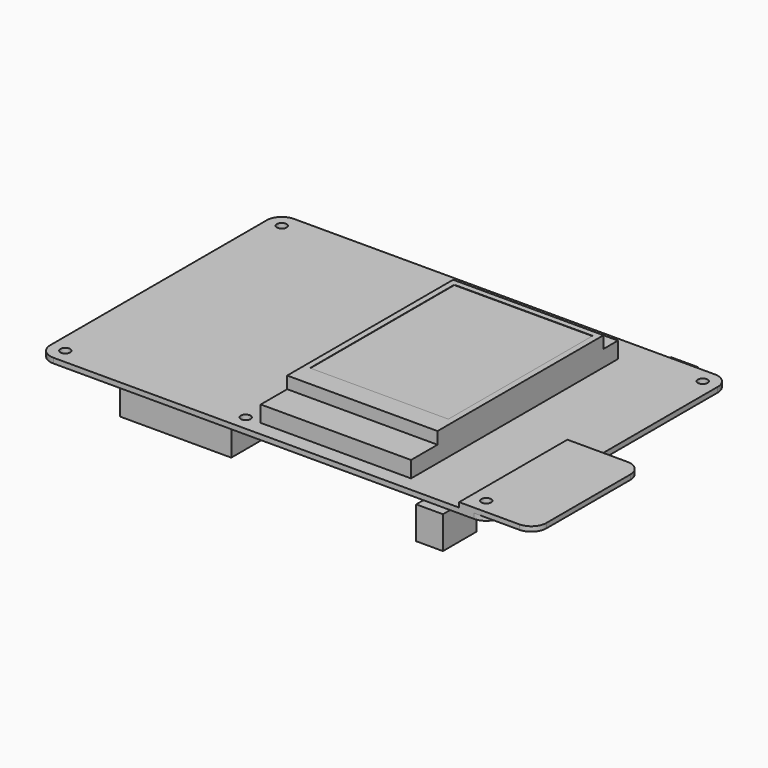
from build123d import *

# Parameters (mm, degrees)
F0_R      = 1.6
F1_DEPTH  = 1.7
F2_W      = 50
F2_H      = 86
F3_DEPTH  = 5.4
F4_W      = 50
F4_H      = 69
F5_DEPTH  = 4
F6_W      = 46
F6_H      = 60
F7_DEPTH  = 0.1
F8_R      = 1.6
F9_DEPTH  = 1.6
F10_W     = 37
F10_H     = 18
F11_DEPTH = 11
F12_W     = 8.9
F12_H     = 14
F13_DEPTH = 10.8


with BuildPart() as f1:
    # F0 (on Top) → F1 (new body)
    with BuildSketch(Plane.XY):
        with BuildLine():
            ThreePointArc((0, 5), (1.464466, 1.464466), (5, 0))
            Line((5, 0), (145, 0))
            ThreePointArc((145, 0), (148.535534, 1.464466), (150, 5))
            Line((150, 5), (150, 95))
            ThreePointArc((150, 95), (148.535534, 98.535534), (145, 100))
            Line((145, 100), (5, 100))
            ThreePointArc((5, 100), (1.464466, 98.535534), (0, 95))
            Line((0, 95), (0, 5))
        make_face()
        with Locations((5, 5)):
            Circle(F0_R, mode=Mode.SUBTRACT)
        with Locations((65, 5)):
            Circle(F0_R, mode=Mode.SUBTRACT)
        with Locations((145, 5)):
            Circle(F0_R, mode=Mode.SUBTRACT)
        with Locations((5, 95)):
            Circle(F0_R, mode=Mode.SUBTRACT)
        with Locations((85, 95)):
            Circle(F0_R, mode=Mode.SUBTRACT)
        with Locations((145, 95)):
            Circle(F0_R, mode=Mode.SUBTRACT)
    extrude(amount=F1_DEPTH)

    # F2 (on face) → F3 (join)
    with BuildSketch(Plane.XY.offset(1.7)):
        with Locations((95, 48)):
            Rectangle(F2_W, F2_H)
    extrude(amount=F3_DEPTH)

    # F4 (on face) → F5 (join)
    with BuildSketch(Plane.XY.offset(7.1)):
        with Locations((95, 50.5)):
            Rectangle(F4_W, F4_H)
    extrude(amount=F5_DEPTH)

    # F6 (on face) → F7 (cut)
    with BuildSketch(Plane.XY.offset(11.1)):
        with Locations((95, 53)):
            Rectangle(F6_W, F6_H)
    extrude(amount=-F7_DEPTH, mode=Mode.SUBTRACT)

    # F8 (on face) → F9 (join)
    with BuildSketch(Plane.XY.offset(1.7)):
        with BuildLine():
            Line((140, 45), (140, 0))
            Line((140, 0), (160, 0))
            ThreePointArc((160, 0), (163.535534, 1.464466), (165, 5))
            Line((165, 5), (165, 40))
            ThreePointArc((165, 40), (163.535534, 43.535534), (160, 45))
            Line((160, 45), (140, 45))
        make_face()
        with Locations((145, 5)):
            Circle(F8_R, mode=Mode.SUBTRACT)
    extrude(amount=F9_DEPTH)

    # F10 (on face) → F11 (join)
    with BuildSketch(Plane(origin=(0, 0, 0), x_dir=(1, 0, 0), z_dir=(0, 0, -1))):
        with Locations((42.5, -13)):
            Rectangle(F10_W, F10_H)
    extrude(amount=F11_DEPTH)

    # F12 (on face) → F13 (join)
    with BuildSketch(Plane(origin=(0, 0, 0), x_dir=(1, 0, 0), z_dir=(0, 0, -1))):
        with Locations((132.55, -96)):
            Rectangle(F12_W, F12_H)
        with Locations((132.55, -4)):
            Rectangle(F12_W, F12_H)
    extrude(amount=F13_DEPTH)


solid = f1.part
